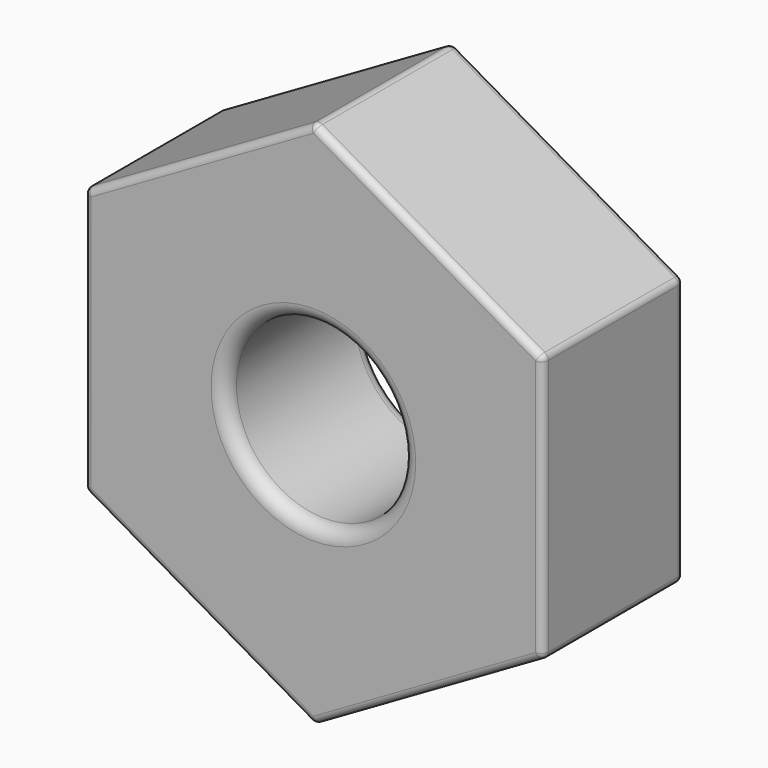
from build123d import *

# Parameters (mm, degrees)
F1_DEPTH = 1.5875
F2_R     = 1.5875
F3_DEPTH = 3.176
F4_R     = 0.127
F5_R     = 0.254


with BuildPart() as f1:
    # F0 (on Front) → F1 (new body, symmetric)
    with BuildSketch(Plane.XZ):
        Polygon((4.1245009758, 2.3811547516), (0.0001099827, 4.7624999987), (-4.1243909931, 2.3813452472), (-4.1245009758, -2.3811547516), (-0.0001099827, -4.7624999987), (4.1243909931, -2.3813452472), align=None)
    extrude(amount=F1_DEPTH, both=True)

    # F2 (on face) → F3 (cut, through all)
    with BuildSketch(Plane.XZ.offset(1.5875)):
        Circle(F2_R)
    extrude(amount=-F3_DEPTH, mode=Mode.SUBTRACT)

    # F4
    f4_edges = [f1.edges().sort_by_distance(p)[0] for p in [
        (-2.062141, -1.5875, 3.571923),
        (-4.124446, -1.5875, 9.5e-05),
        (2.062305, -1.5875, 3.571827),
        (-2.062305, -1.5875, -3.571827),
        (2.062141, -1.5875, -3.571923),
        (4.124446, -1.5875, -9.5e-05),
        (4.124501, 0, 2.381155),
        (0.00011, 0, 4.7625),
        (4.124446, 1.5875, -9.5e-05),
        (2.062305, 1.5875, 3.571827),
        (-4.124446, 1.5875, 9.5e-05),
        (-2.062141, 1.5875, 3.571923),
        (2.062141, 1.5875, -3.571923),
        (4.124391, 0, -2.381345),
        (-2.062305, 1.5875, -3.571827),
        (-0.00011, 0, -4.7625),
        (-4.124501, 0, -2.381155),
        (-4.124391, 0, 2.381345),
    ]]
    fillet(f4_edges, radius=F4_R)

    # F5
    f5_edges = [f1.edges().sort_by_distance(p)[0] for p in [
        (-1.998643, -1.5875, 3.461936),
        (1.998803, -1.5875, 3.461844),
        (-3.997446, -1.5875, 9.2e-05),
        (3.997446, -1.5875, -9.2e-05),
        (-1.998803, -1.5875, -3.461844),
        (1.998643, -1.5875, -3.461936),
        (-1.5875, -1.5875, 0),
        (1.5875, 0, 0),
        (-1.5875, 1.5875, 0),
    ]]
    fillet(f5_edges, radius=F5_R)


solid = f1.part
